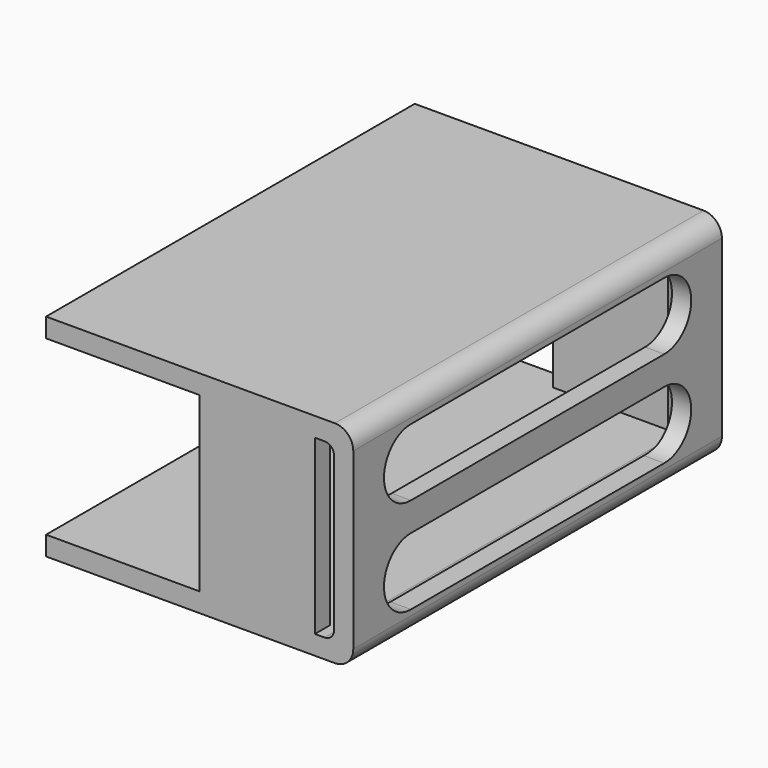
from build123d import *

# Parameters (mm, degrees)
PAD7398_DEPTH   = 38.1
SKETCH8421_W    = 19.05
SKETCH8421_H    = 31.75
PAD7397_DEPTH   = 3.175
POCKET691_DEPTH = 50.801


with BuildPart() as part:
    # Sketch8418 → Pad7398 (new body, symmetric)
    with BuildSketch(Plane.XZ):
        with BuildLine():
            ThreePointArc((0, 14.4145), (-0.892739, 16.569761), (-3.048, 17.4625))
            Line((-3.048, 17.4625), (-50.8, 17.4625))
            Line((-50.8, 17.4625), (-50.8, 14.2875))
            Line((-50.8, 14.2875), (-4.7625, 14.2875))
            ThreePointArc((-3.175, 12.7), (-3.639968, 13.822532), (-4.7625, 14.2875))
            Line((-3.175, 12.7), (-3.175, -12.7))
            ThreePointArc((-4.7625, -14.2875), (-3.639968, -13.822532), (-3.175, -12.7))
            Line((-4.7625, -14.2875), (-50.8, -14.2875))
            Line((-50.8, -14.2875), (-50.8, -17.4625))
            Line((-50.8, -17.4625), (-3.048, -17.4625))
            ThreePointArc((-3.048, -17.4625), (-0.892739, -16.569761), (0, -14.4145))
            Line((0, -14.4145), (0, 14.4145))
        make_face()
    extrude(amount=PAD7398_DEPTH, both=True)

    # Sketch8421 (on DatumPlane) → Pad7397 (join)
    with BuildSketch(Plane.XZ.offset(38.1)):
        with Locations((-15.875, 0)):
            Rectangle(SKETCH8421_W, SKETCH8421_H)
    pad7397 = extrude(amount=-PAD7397_DEPTH)

    # Mirrored017: Pad7397 across XZ
    add(pad7397.mirror(Plane.XZ))

    # Sketch8419 → Pocket691 (cut, through all)
    with BuildSketch(Plane.YZ):
        with BuildLine():
            ThreePointArc((26.19375, 2.38125), (31.75, 7.9375), (26.19375, 13.49375))
            Line((26.19375, 13.49375), (-26.19375, 13.49375))
            ThreePointArc((-26.19375, 13.49375), (-31.75, 7.9375), (-26.19375, 2.38125))
            Line((-26.19375, 2.38125), (26.19375, 2.38125))
        make_face()
        with BuildLine():
            ThreePointArc((26.19375, -13.49375), (31.75, -7.9375), (26.19375, -2.38125))
            Line((26.19375, -2.38125), (-26.19375, -2.38125))
            ThreePointArc((-26.19375, -2.38125), (-31.75, -7.9375), (-26.19375, -13.49375))
            Line((-26.19375, -13.49375), (26.19375, -13.49375))
        make_face()
    extrude(amount=-POCKET691_DEPTH, mode=Mode.SUBTRACT)


solid = part.part
